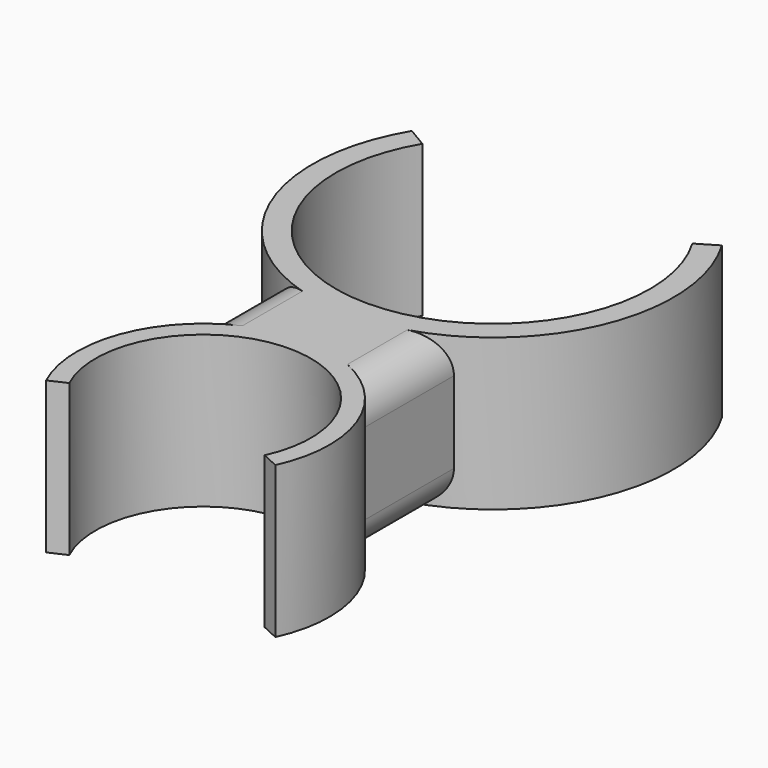
from build123d import *

# Parameters (mm, degrees)
F1_DEPTH = 13
F2_R     = 3


with BuildPart() as f1:
    # F0 (on Top) → F1 (new body)
    with BuildSketch(Plane.XY):
        with BuildLine():
            ThreePointArc((11.590273, 26.810686), (0, 6.40625), (-11.590273, 26.810686))
            Line((-11.590273, 26.810686), (-13.308113, 27.834907))
            ThreePointArc((-13.308113, 27.834907), (-14.957469, 15.858164), (-7.5, 6.342445))
            ThreePointArc((-7.5, 6.342445), (0, 4.40625), (7.5, 6.342445))
            ThreePointArc((7.5, 6.342445), (14.957469, 15.858164), (13.308113, 27.834907))
            Line((13.308113, 27.834907), (11.590273, 26.810686))
        make_face()
        with BuildLine():
            ThreePointArc((7.5, 6.342445), (0, 4.40625), (-7.5, 6.342445))
            Line((-7.5, 6.342445), (-7.5, -3.390785))
            ThreePointArc((-7.5, -3.390785), (-0.005535, -0.365641), (7.5, -3.363212))
            Line((7.5, -3.363212), (7.5, 6.342445))
        make_face()
        with BuildLine():
            ThreePointArc((7.5, -3.363212), (-0.005535, -0.365641), (-7.5, -3.390785))
            ThreePointArc((-7.5, -3.390785), (-10.644414, -9.208204), (-9.826055, -15.770215))
            Line((-9.826055, -15.770215), (-8.374253, -15.097704))
            ThreePointArc((-8.374253, -15.097704), (0.0144, -1.965623), (8.403054, -15.097704))
            Line((8.403054, -15.097704), (9.854855, -15.770215))
            ThreePointArc((9.854855, -15.770215), (10.669515, -9.188614), (7.5, -3.363212))
        make_face()
    extrude(amount=F1_DEPTH)

    # F2
    f2_edges = [f1.edges().sort_by_distance(p)[0] for p in [
        (7.5, 1.489616, 13),
        (-7.5, 1.47583, 13),
        (7.5, 1.489616, 0),
        (-7.5, 1.47583, 0),
    ]]
    fillet(f2_edges, radius=F2_R)


solid = f1.part
